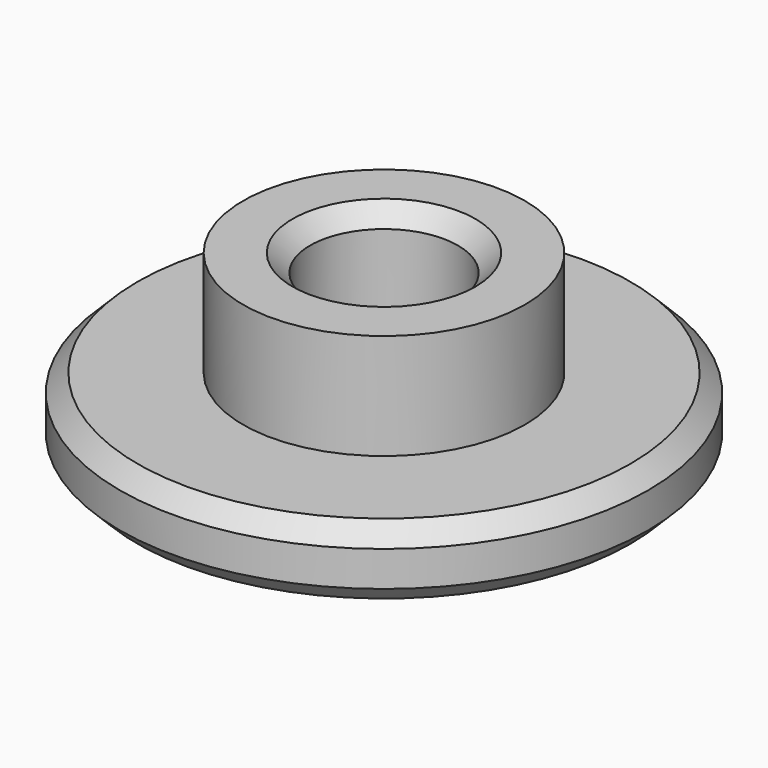
from build123d import *

# Parameters (mm, degrees)
CYLINDER_R        = 15
CYLINDER_DEPTH    = 4
CYLINDER002_R     = 8
CYLINDER002_DEPTH = 10
CYLINDER003_R     = 4.2
CYLINDER003_DEPTH = 10
CHAMFER_SIZE      = 1
CHAMFER001_SIZE   = 1


with BuildPart() as part:
    # Cylinder → Cylinder (join)
    with BuildSketch(Plane.XY):
        Circle(CYLINDER_R)
    extrude(amount=CYLINDER_DEPTH)

    # Cylinder002 → Cylinder002 (join)
    with BuildSketch(Plane.XY):
        Circle(CYLINDER002_R)
    extrude(amount=CYLINDER002_DEPTH)

    # Cylinder003 → Cylinder003 (cut)
    with BuildSketch(Plane.XY):
        Circle(CYLINDER003_R)
    extrude(amount=CYLINDER003_DEPTH, mode=Mode.SUBTRACT)

    # Chamfer
    chamfer_edges = [part.edges().sort_by_distance(p)[0] for p in [
        (-15, 0, 4),
        (15, 0, 2),
        (-15, 0, 0),
    ]]
    chamfer(chamfer_edges, length=CHAMFER_SIZE)

    # Chamfer001
    chamfer001_edges = [part.edges().sort_by_distance(p)[0] for p in [
        (-4.2, 0, 10),
        (4.2, 0, 5),
        (-4.2, 0, 0),
    ]]
    chamfer(chamfer001_edges, length=CHAMFER001_SIZE)


solid = part.part
